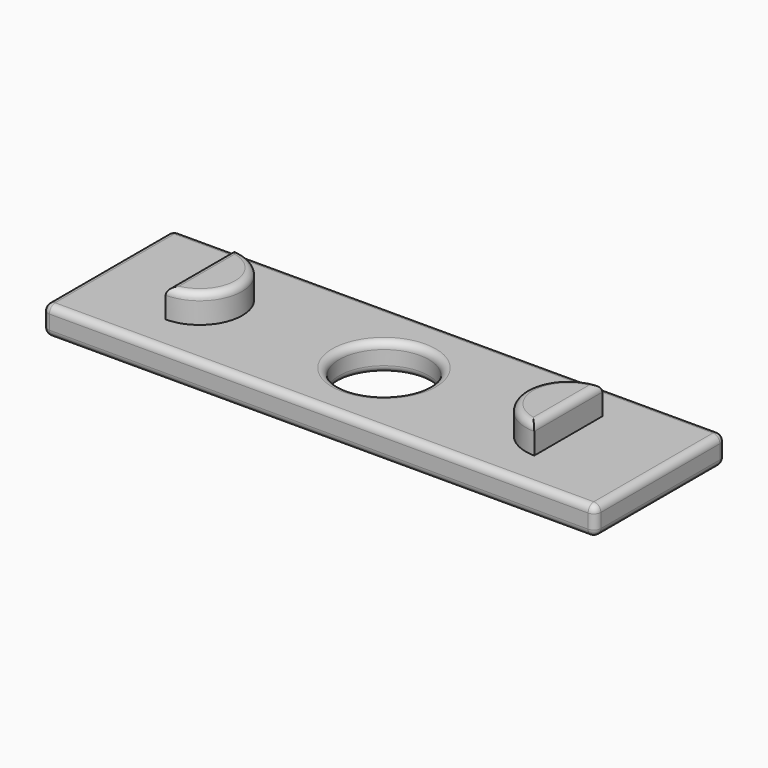
from build123d import *

# Parameters (mm, degrees)
F0_W     = 39
F0_H     = 11.5
F0_R     = 3.15
F1_DEPTH = 2
F3_DEPTH = 2
F4_R     = 0.5
F4_2_R   = 0.5


with BuildPart() as f1:
    # F0 (on Top) → F1 (new body)
    with BuildSketch(Plane.XY):
        Rectangle(F0_W, F0_H)
        Circle(F0_R, mode=Mode.SUBTRACT)
    extrude(amount=F1_DEPTH)

    # F4
    f4_edges = [f1.edges().sort_by_distance(p)[0] for p in [
        (-3.15, 0, 2),
        (-19.5, 0, 0),
        (19.5, 0, 0),
        (0, 5.75, 0),
        (19.5, 5.75, 1),
        (19.5, -5.75, 1),
        (0, 5.75, 2),
        (-19.5, 5.75, 1),
        (-19.5, 0, 2),
        (-19.5, -5.75, 1),
        (0, -5.75, 2),
        (19.5, 0, 2),
        (0, -5.75, 0),
        (-3.15, 0, 0),
    ]]
    fillet(f4_edges, radius=F4_R)


with BuildPart() as f3:
    # F2 (on face) → F3 (new body)
    with BuildSketch(Plane.XY.offset(2)):
        with BuildLine():
            Line((-13, 3), (-13, -3))
            ThreePointArc((-13, -3), (-10, 0), (-13, 3))
        make_face()
        with BuildLine():
            ThreePointArc((13, 3), (10, 0), (13, -3))
            Line((13, -3), (13, 3))
        make_face()
    extrude(amount=F3_DEPTH)

    # F4#2
    f4_2_edges = [f3.edges().sort_by_distance(p)[0] for p in [
        (10, 0, 4),
        (-10, 0, 4),
        (-13, 0, 4),
        (13, 0, 4),
    ]]
    fillet(f4_2_edges, radius=F4_2_R)


solid = Compound([f1.part, f3.part])
